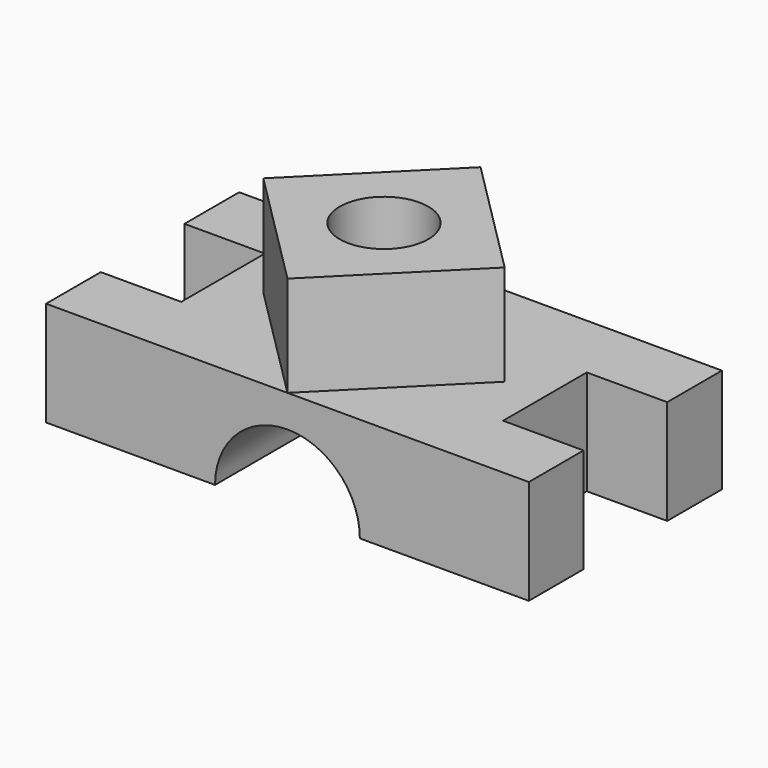
from build123d import *

# Parameters (mm, degrees)
F0_W      = 3048
F0_H      = 1524
F1_DEPTH  = 635
F2_W      = 1016
F2_H      = 660.4
F3_DEPTH  = 635.001
F4_W      = 1016
F4_H      = 660.4
F5_DEPTH  = 635.001
F6_DEPTH  = 25.4
F8_DEPTH  = 635
F9_R      = 279.4
F10_DEPTH = 1295.401
F11_R     = 457.2
F12_DEPTH = 1524.001


with BuildPart() as f1:
    # F0 (on Top) → F1 (new body)
    with BuildSketch(Plane.XY):
        Rectangle(F0_W, F0_H)
    extrude(amount=F1_DEPTH)

    # F2 (on face) → F3 (cut, through all)
    with BuildSketch(Plane.XY.offset(635)):
        with Locations((-1524, 0)):
            Rectangle(F2_W, F2_H)
    extrude(amount=-F3_DEPTH, mode=Mode.SUBTRACT)

    # F4 (on face) → F5 (cut, through all)
    with BuildSketch(Plane.XY.offset(635)):
        with Locations((1524, 0)):
            Rectangle(F4_W, F4_H)
    extrude(amount=-F5_DEPTH, mode=Mode.SUBTRACT)

    # F1_face (on face) → F6 (join)
    with BuildSketch(Plane.XY.offset(635)):
        Polygon((-1016, -330.2), (-1524, -330.2), (-1524, -762), (1524, -762), (1524, -330.2), (1016, -330.2), (1016, 330.2), (1524, 330.2), (1524, 762), (-1524, 762), (-1524, 330.2), (-1016, 330.2), align=None)
    extrude(amount=F6_DEPTH)

    # F7 (on face) → F8 (join)
    with BuildSketch(Plane.XY.offset(660.4)):
        Polygon((762, 0), (0, 762), (-762, 0), (0, -762), align=None)
    extrude(amount=F8_DEPTH)

    # F9 (on face) → F10 (cut, through all)
    with BuildSketch(Plane.XY.offset(1295.4)):
        Circle(F9_R)
    extrude(amount=-F10_DEPTH, mode=Mode.SUBTRACT)

    # F11 (on face) → F12 (cut, through all)
    with BuildSketch(Plane.XZ.offset(762)):
        Circle(F11_R)
    extrude(amount=-F12_DEPTH, mode=Mode.SUBTRACT)


solid = f1.part
